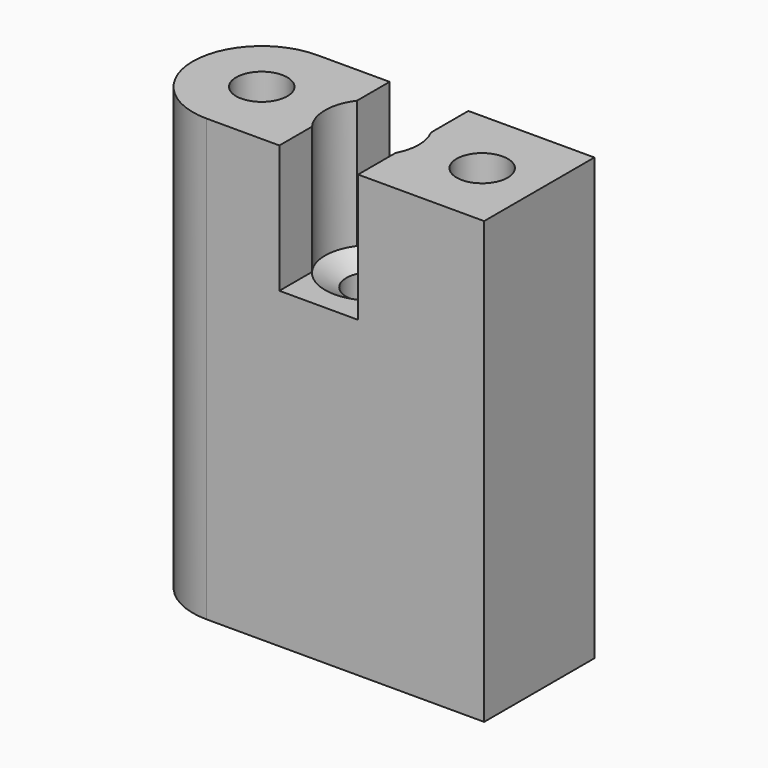
from build123d import *

# Parameters (mm, degrees)
F0_W     = 7.05
F0_H     = 3.5
F1_DEPTH = 11.2
F3_D     = 2.38
F3_DEPTH = 3.25
F3_TIP   = 0.7150241366
F5_D     = 1.3
F8_DEPTH = 3.25


with BuildPart() as f1:
    # F0 (on Top) → F1 (new body)
    with BuildSketch(Plane.XY):
        Rectangle(F0_W, F0_H)
        with BuildLine():
            ThreePointArc((-3.525, 1.75), (-5.275, 0), (-3.525, -1.75))
            Line((-3.525, -1.75), (-3.525, 1.75))
        make_face()
    extrude(amount=F1_DEPTH)

    # F3
    with Locations(Plane.XY.offset(11.2)):
        with Locations((-0.725, 0)):
            Hole(F3_D / 2, depth=F3_DEPTH)
            with Locations((0, 0, -(F3_DEPTH + F3_TIP / 2))):  # 118° drill point
                Cone(0, F3_D / 2, F3_TIP, mode=Mode.SUBTRACT)

    # F5 (through all)
    with Locations(Plane.XY.offset(11.2)):
        with Locations((-3.525, 0), (-0.725, 0), (2.075, 0)):
            Hole(F5_D / 2)

    # F7 (on face) → F8 (cut)
    with BuildSketch(Plane.XY.offset(11.2)):
        with BuildLine():
            Line((-1.6765881673, -1.75), (0.3234118327, -1.75))
            Line((0.3234118327, -1.75), (0.3234118327, -0.562967698))
            ThreePointArc((0.3234118327, -0.562967698), (-0.6350671823, -1.1865968516), (-1.6765881673, -0.7145487806))
            Line((-1.6765881673, -0.7145487806), (-1.6765881673, -1.75))
        make_face()
        with BuildLine():
            ThreePointArc((-1.6765881673, 0.7145487806), (-0.6350671823, 1.1865968516), (0.3234118327, 0.562967698))
            Line((0.3234118327, 0.562967698), (0.3234118327, 1.75))
            Line((0.3234118327, 1.75), (-1.6765881673, 1.75))
            Line((-1.6765881673, 1.75), (-1.6765881673, 0.7145487806))
        make_face()
    extrude(amount=-F8_DEPTH, mode=Mode.SUBTRACT)


solid = f1.part
